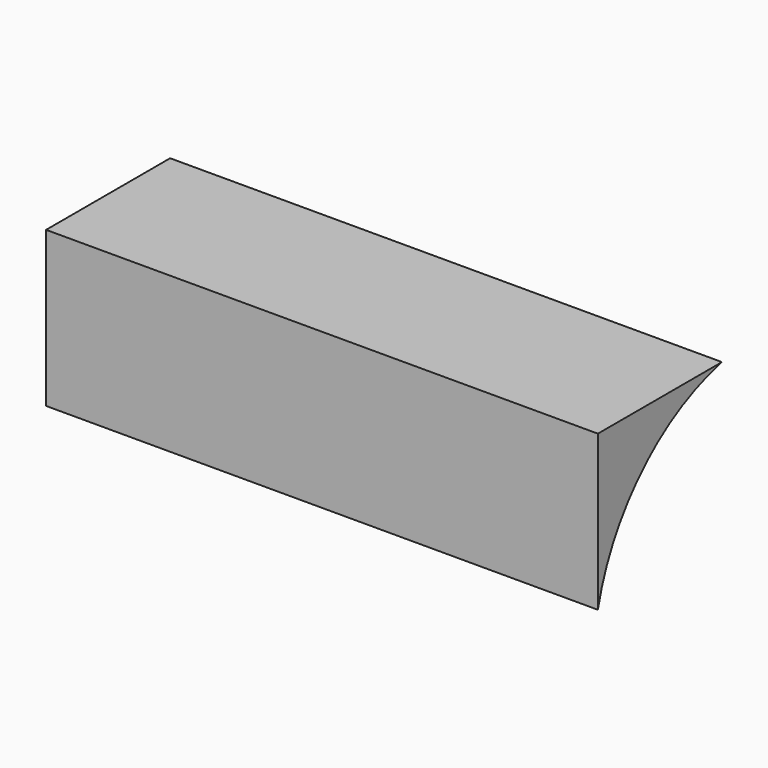
from build123d import *

# Parameters (mm, degrees)
F1_DEPTH = 361.95


with BuildPart() as f1:
    # F0 (on Right) → F1 (new body)
    with BuildSketch(Plane.YZ):
        with BuildLine():
            Line((-76.230727, 101.703964), (-76.230727, 0))
            ThreePointArc((-76.230727, 0), (-40.014446, 65.49099), (25.478372, 101.703964))
            Line((25.478372, 101.703964), (-76.230727, 101.703964))
        make_face()
    extrude(amount=F1_DEPTH)


solid = f1.part
